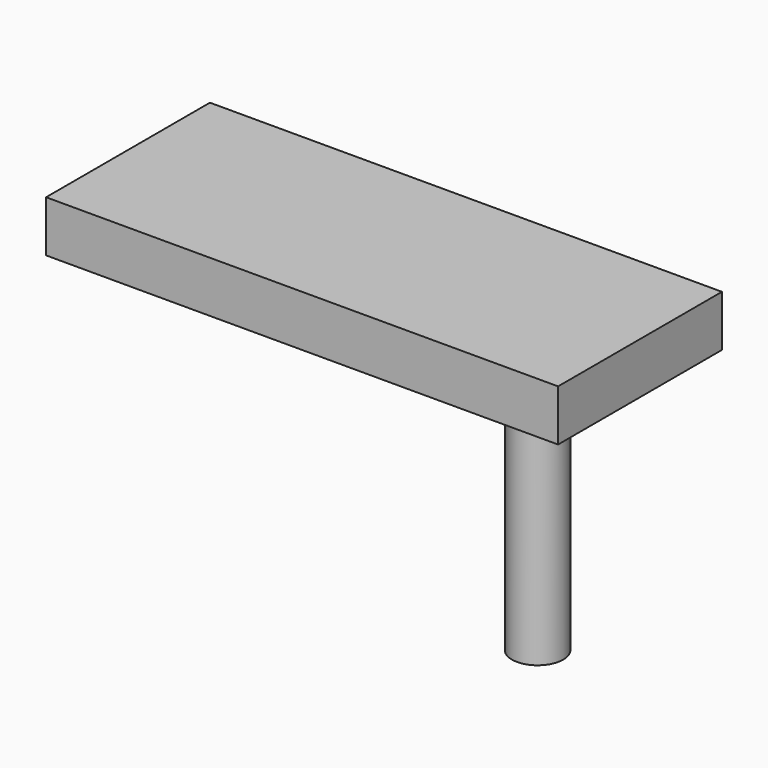
from build123d import *

# Parameters (mm, degrees)
F0_R     = 6.35
F2_DEPTH = 63.5
F1_W     = 127
F1_H     = 50.8
F3_DEPTH = 12.7


with BuildPart() as f2:
    # F0 (on Top) → F2 (new body)
    with BuildSketch(Plane.XY):
        Circle(F0_R)
    extrude(amount=-F2_DEPTH)

    # F1 (on Top) → F3 (join)
    with BuildSketch(Plane.XY):
        with Locations((-38.1, 0)):
            Rectangle(F1_W, F1_H)
    extrude(amount=F3_DEPTH)


solid = f2.part
